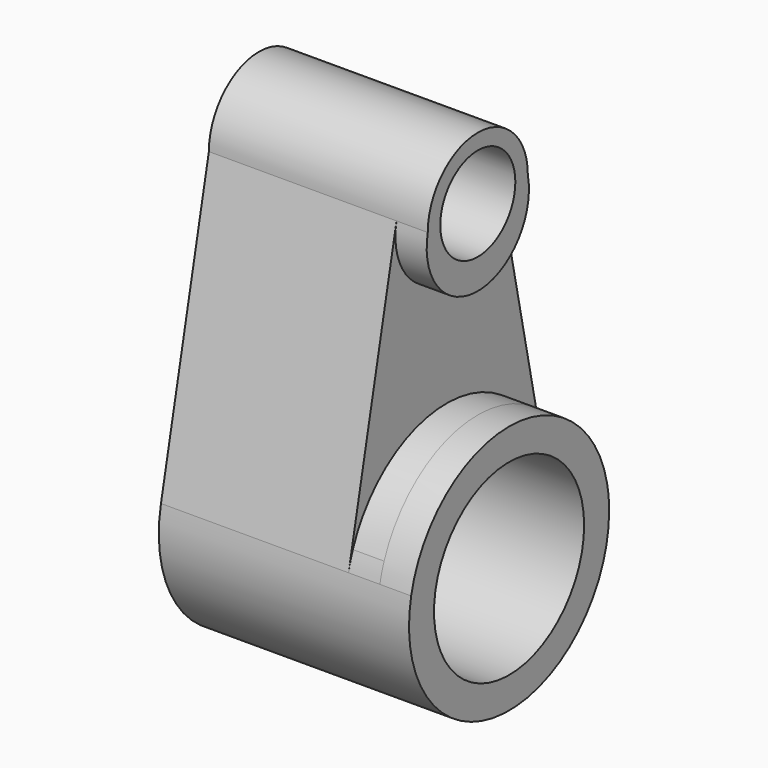
from build123d import *

# Parameters (mm, degrees)
F0_R     = 19.05
F1_DEPTH = 50.8
F2_DEPTH = 44.45
F0_R_2   = 9.525
F3_DEPTH = 44.45
F5_DEPTH = 6.35


with BuildPart() as f1:
    # F0 (on Right) → F1 (new body)
    with BuildSketch(Plane.YZ):
        with BuildLine():
            ThreePointArc((-24.8587950459, 5.2153915354), (-2.6216984795, -25.2643364663), (25.4, 0))
            ThreePointArc((25.4, 0), (25.2643364465, 2.6216986701), (24.8587949672, 5.2153919105))
            ThreePointArc((24.8587949672, 5.2153919105), (-1.916e-07, 25.4), (-24.8587950459, 5.2153915354))
        make_face()
        Circle(F0_R, mode=Mode.SUBTRACT)
    extrude(amount=F1_DEPTH)

    # F0 (on Right) → F2 (join)
    with BuildSketch(Plane.YZ):
        with BuildLine():
            ThreePointArc((-24.8587950459, 5.2153915354), (-1.916e-07, 25.4), (24.8587949672, 5.2153919105))
            Line((24.8587949672, 5.2153919105), (12.7, 63.1694245347))
            ThreePointArc((12.7, 63.1694245347), (0, 50.4694245347), (-12.7, 63.1694245347))
            Line((-12.7, 63.1694245347), (-24.8587950459, 5.2153915354))
        make_face()
    extrude(amount=F2_DEPTH)

    # F0 (on Right) → F3 (join)
    with BuildSketch(Plane.YZ):
        with BuildLine():
            ThreePointArc((-12.7, 63.1694245347), (0, 50.4694245347), (12.7, 63.1694245347))
            ThreePointArc((12.7, 63.1694245347), (0, 75.8694245347), (-12.7, 63.1694245347))
        make_face()
        with Locations((0, 63.1694245347)):
            Circle(F0_R_2, mode=Mode.SUBTRACT)
    extrude(amount=F3_DEPTH)

    # F4 (on face) → F5 (cut)
    with BuildSketch(Plane.YZ.offset(44.45)):
        with BuildLine():
            ThreePointArc((-23.7782567625, 8.9305377965), (1.9345459415, 25.3262222212), (24.8587949734, 5.2153918809))
            Line((24.8587949672, 5.2153919105), (12.7, 63.1694245347))
            ThreePointArc((12.7, 63.1694245347), (0, 47.5284621589), (-12.7, 63.1694245347))
            Line((-12.7, 63.1694245347), (-24.8587950459, 5.2153915354))
            ThreePointArc((-24.8587950459, 5.2153915354), (-24.3893681773, 7.0935689122), (-23.7782567625, 8.9305377965))
        make_face()
    extrude(amount=-F5_DEPTH, mode=Mode.SUBTRACT)


solid = f1.part
